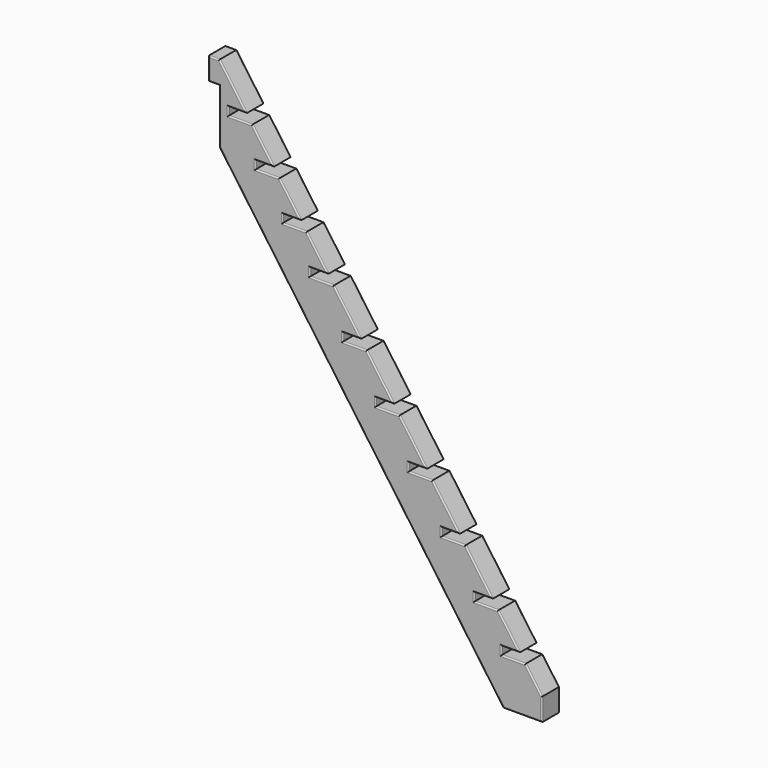
from build123d import *

# Parameters (mm, degrees)
F0_W     = 48
F0_H     = 100
F1_DEPTH = 98
F2_R     = 6


with BuildPart() as f1:
    # F0 (on Front) → F1 (new body)
    with BuildSketch(Plane.XZ):
        Polygon((-716.939801, 808.42229), (-837.22282, 978.42229), (-837.22282, 878.42229), (-837.22282, 635.618518), (420.227342, -1141.57771), (592.022463, -1141.57771), (592.022463, -1041.57771), (518.437557, -937.57771), (412.965859, -937.57771), (412.965859, -901.57771), (492.965859, -901.57771), (398.154538, -767.57771), (292.68284, -767.57771), (292.68284, -731.57771), (372.68284, -731.57771), (252.399821, -561.57771), (146.928123, -561.57771), (146.928123, -525.57771), (226.928123, -525.57771), (106.645104, -355.57771), (1.173406, -355.57771), (1.173406, -319.57771), (81.173406, -319.57771), (-39.109613, -149.57771), (-144.581311, -149.57771), (-144.581311, -113.57771), (-64.581311, -113.57771), (-184.86433, 56.42229), (-290.336028, 56.42229), (-290.336028, 92.42229), (-210.336028, 92.42229), (-330.619047, 262.42229), (-436.090745, 262.42229), (-436.090745, 298.42229), (-356.090745, 298.42229), (-450.902065, 432.42229), (-556.373764, 432.42229), (-556.373764, 468.42229), (-476.373764, 468.42229), (-571.185084, 602.42229), (-676.656782, 602.42229), (-676.656782, 638.42229), (-596.656782, 638.42229), (-691.468103, 772.42229), (-796.939801, 772.42229), (-796.939801, 808.42229), align=None)
        with Locations((-861.22282, 928.42229)):
            Rectangle(F0_W, F0_H)
    extrude(amount=-F1_DEPTH)

    # F2
    f2_edges = [f1.edges().sort_by_distance(p)[0] for p in [
        (-208.497739, 0, -252.979596),
        (506.124902, 0, -1141.57771),
        (592.022463, 0, -1091.57771),
        (555.23001, 0, -989.57771),
        (465.701708, 0, -937.57771),
        (412.965859, 0, -919.57771),
        (452.965859, 0, -901.57771),
        (445.560199, 0, -834.57771),
        (345.418689, 0, -767.57771),
        (292.68284, 0, -749.57771),
        (332.68284, 0, -731.57771),
        (312.541331, 0, -646.57771),
        (199.663972, 0, -561.57771),
        (146.928123, 0, -543.57771),
        (186.928123, 0, -525.57771),
        (166.786614, 0, -440.57771),
        (53.909255, 0, -355.57771),
        (1.173406, 0, -337.57771),
        (41.173406, 0, -319.57771),
        (21.031897, 0, -234.57771),
        (-91.845462, 0, -149.57771),
        (-144.581311, 0, -131.57771),
        (-104.581311, 0, -113.57771),
        (-124.72282, 0, -28.57771),
        (-237.600179, 0, 56.42229),
        (-290.336028, 0, 74.42229),
        (-250.336028, 0, 92.42229),
        (-270.477537, 0, 177.42229),
        (-383.354896, 0, 262.42229),
        (-436.090745, 0, 280.42229),
        (-396.090745, 0, 298.42229),
        (-403.496405, 0, 365.42229),
        (-503.637914, 0, 432.42229),
        (-556.373764, 0, 450.42229),
        (-516.373764, 0, 468.42229),
        (-523.779424, 0, 535.42229),
        (-623.920933, 0, 602.42229),
        (-676.656782, 0, 620.42229),
        (-636.656782, 0, 638.42229),
        (-644.062443, 0, 705.42229),
        (-744.203952, 0, 772.42229),
        (-796.939801, 0, 790.42229),
        (-756.939801, 0, 808.42229),
        (-777.081311, 0, 893.42229),
        (-861.22282, 0, 978.42229),
        (-885.22282, 0, 928.42229),
        (-861.22282, 0, 878.42229),
        (-837.22282, 0, 757.020404),
        (-208.497739, 98, -252.979596),
        (506.124902, 98, -1141.57771),
        (592.022463, 98, -1091.57771),
        (555.23001, 98, -989.57771),
        (465.701708, 98, -937.57771),
        (412.965859, 98, -919.57771),
        (452.965859, 98, -901.57771),
        (445.560199, 98, -834.57771),
        (345.418689, 98, -767.57771),
        (292.68284, 98, -749.57771),
        (332.68284, 98, -731.57771),
        (312.541331, 98, -646.57771),
        (199.663972, 98, -561.57771),
        (146.928123, 98, -543.57771),
        (186.928123, 98, -525.57771),
        (166.786614, 98, -440.57771),
        (53.909255, 98, -355.57771),
        (1.173406, 98, -337.57771),
        (41.173406, 98, -319.57771),
        (21.031897, 98, -234.57771),
        (-91.845462, 98, -149.57771),
        (-144.581311, 98, -131.57771),
        (-104.581311, 98, -113.57771),
        (-124.72282, 98, -28.57771),
        (-237.600179, 98, 56.42229),
        (-290.336028, 98, 74.42229),
        (-250.336028, 98, 92.42229),
        (-270.477537, 98, 177.42229),
        (-383.354896, 98, 262.42229),
        (-436.090745, 98, 280.42229),
        (-396.090745, 98, 298.42229),
        (-403.496405, 98, 365.42229),
        (-503.637914, 98, 432.42229),
        (-556.373764, 98, 450.42229),
        (-516.373764, 98, 468.42229),
        (-523.779424, 98, 535.42229),
        (-623.920933, 98, 602.42229),
        (-676.656782, 98, 620.42229),
        (-636.656782, 98, 638.42229),
        (-644.062443, 98, 705.42229),
        (-744.203952, 98, 772.42229),
        (-796.939801, 98, 790.42229),
        (-756.939801, 98, 808.42229),
        (-777.081311, 98, 893.42229),
        (-861.22282, 98, 978.42229),
        (-885.22282, 98, 928.42229),
        (-861.22282, 98, 878.42229),
        (-837.22282, 98, 757.020404),
    ]]
    fillet(f2_edges, radius=F2_R)


solid = f1.part
